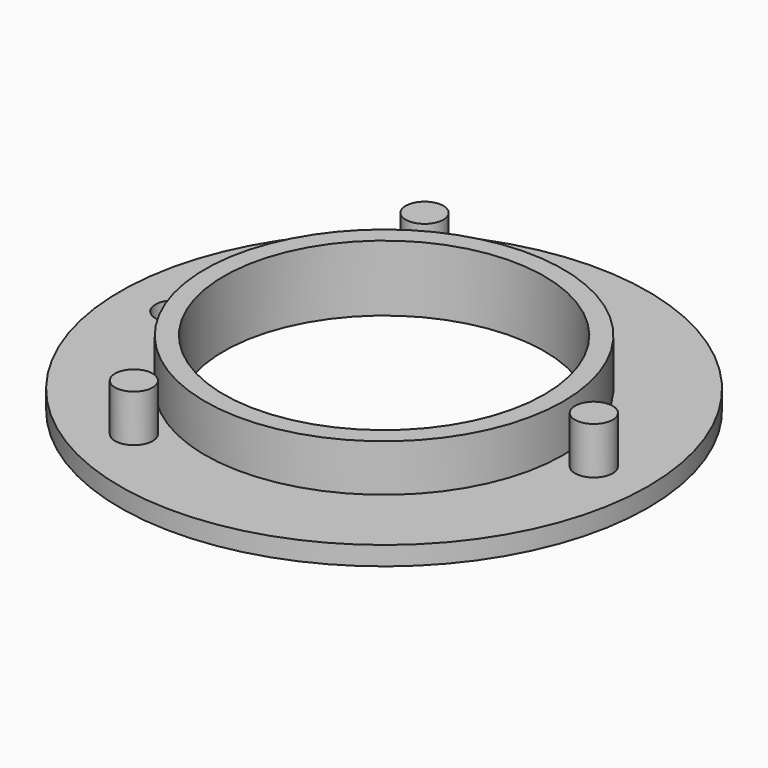
from build123d import *

# Parameters (mm, degrees)
SKETCH019_R     = 19
SKETCH019_R_2   = 17
PAD009003_DEPTH = 7
SKETCH017_R     = 28
SKETCH017_R_2   = 19
PAD009004_DEPTH = 2
SKETCH018_R     = 2
PAD009005_DEPTH = 7
SKETCH020_R     = 2
POCKET003_DEPTH = 5


with BuildPart() as part:
    # Sketch019 → Pad009003 (new body)
    with BuildSketch(Plane.XY):
        Circle(SKETCH019_R)
        Circle(SKETCH019_R_2, mode=Mode.SUBTRACT)
    extrude(amount=PAD009003_DEPTH)

    # Sketch017 → Pad009004 (join)
    with BuildSketch(Plane(origin=(0, 0, 0), x_dir=(1, 0, 0), z_dir=(0, 0, -1))):
        Circle(SKETCH017_R)
        Circle(SKETCH017_R_2, mode=Mode.SUBTRACT)
    extrude(amount=-PAD009004_DEPTH)

    # Sketch018 → Pad009005 (join)
    with BuildSketch(Plane.XY):
        with Locations((22.25, 0)):
            Circle(SKETCH018_R)
        with Locations((-11.125, 19.269065)):
            Circle(SKETCH018_R)
        with Locations((-11.125, -19.269065)):
            Circle(SKETCH018_R)
    extrude(amount=PAD009005_DEPTH)

    # Sketch020 → Pocket003 (cut)
    with BuildSketch(Plane.XY.offset(2.2)):
        with Locations((-22.25, 0)):
            Circle(SKETCH020_R)
    extrude(amount=-POCKET003_DEPTH, mode=Mode.SUBTRACT)


solid = part.part
